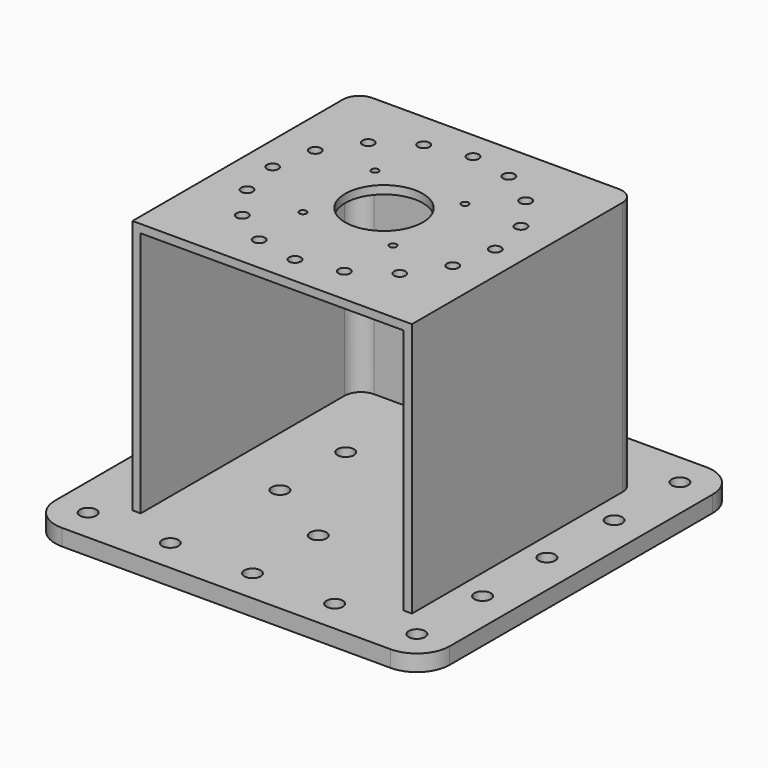
from build123d import *

# Parameters (mm, degrees)
F0_R     = 6.35
F1_DEPTH = 12.7
F2_DEPTH = 203.2
F3_R     = 95
F3_R_2   = 4.5
F3_R_3   = 2.75
F3_R_4   = 30
F4_DEPTH = 6.35


with BuildPart() as f1:
    # F0 (on Top) → F1 (new body)
    with BuildSketch(Plane.XY):
        with BuildLine():
            Line((-127, -152.4), (127, -152.4))
            ThreePointArc((127, -152.4), (144.9605122421, -144.9605122421), (152.4, -127))
            Line((152.4, -127), (152.4, 127))
            ThreePointArc((152.4, 127), (144.9605122421, 144.9605122421), (127, 152.4))
            Line((127, 152.4), (-127, 152.4))
            ThreePointArc((-127, 152.4), (-144.9605122421, 144.9605122421), (-152.4, 127))
            Line((-152.4, 127), (-152.4, -127))
            ThreePointArc((-152.4, -127), (-144.9605122421, -144.9605122421), (-127, -152.4))
        make_face()
        with Locations((-127, -127)):
            Circle(F0_R, mode=Mode.SUBTRACT)
        with Locations((-63.5, -127)):
            Circle(F0_R, mode=Mode.SUBTRACT)
        with Locations((-127, -63.5)):
            Circle(F0_R, mode=Mode.SUBTRACT)
        with Locations((0, -127)):
            Circle(F0_R, mode=Mode.SUBTRACT)
        with Locations((63.5, -127)):
            Circle(F0_R, mode=Mode.SUBTRACT)
        with Locations((127, -127)):
            Circle(F0_R, mode=Mode.SUBTRACT)
        with Locations((127, -63.5)):
            Circle(F0_R, mode=Mode.SUBTRACT)
        with Locations((-127, 0)):
            Circle(F0_R, mode=Mode.SUBTRACT)
        with Locations((-127, 63.5)):
            Circle(F0_R, mode=Mode.SUBTRACT)
        with Locations((-127, 127)):
            Circle(F0_R, mode=Mode.SUBTRACT)
        with Locations((-63.5, 127)):
            Circle(F0_R, mode=Mode.SUBTRACT)
        with BuildLine():
            Line((107.95, 95.25), (107.95, -107.95))
            Line((107.95, -107.95), (101.6, -107.95))
            Line((101.6, -107.95), (-101.6, -107.95))
            Line((-101.6, -107.95), (-107.95, -107.95))
            Line((-107.95, -107.95), (-107.95, 95.25))
            ThreePointArc((-107.95, 95.25), (-104.2302561211, 104.2302561211), (-95.25, 107.95))
            Line((-95.25, 107.95), (95.25, 107.95))
            ThreePointArc((95.25, 107.95), (104.2302561211, 104.2302561211), (107.95, 95.25))
        make_face(mode=Mode.SUBTRACT)
        with Locations((125.8721500635, 0)):
            Circle(F0_R, mode=Mode.SUBTRACT)
        with Locations((127, 63.5)):
            Circle(F0_R, mode=Mode.SUBTRACT)
        with Locations((0, 127)):
            Circle(F0_R, mode=Mode.SUBTRACT)
        with Locations((63.5, 127)):
            Circle(F0_R, mode=Mode.SUBTRACT)
        with Locations((127, 127)):
            Circle(F0_R, mode=Mode.SUBTRACT)
        with BuildLine():
            Line((-101.6, -107.95), (101.6, -107.95))
            Line((101.6, -107.95), (101.6, 88.9))
            ThreePointArc((101.6, 88.9), (97.8802561211, 97.8802561211), (88.9, 101.6))
            Line((88.9, 101.6), (-88.9, 101.6))
            ThreePointArc((-88.9, 101.6), (-97.8802561211, 97.8802561211), (-101.6, 88.9))
            Line((-101.6, 88.9), (-101.6, -107.95))
        make_face()
        with Locations((-54.9926131403, -31.75)):
            Circle(F0_R, mode=Mode.SUBTRACT)
        with Locations((0, -63.5)):
            Circle(F0_R, mode=Mode.SUBTRACT)
        with Locations((54.9926131403, -31.75)):
            Circle(F0_R, mode=Mode.SUBTRACT)
        with Locations((-54.9926131403, 31.75)):
            Circle(F0_R, mode=Mode.SUBTRACT)
        with Locations((54.9926131403, 31.75)):
            Circle(F0_R, mode=Mode.SUBTRACT)
        with Locations((0, 63.5)):
            Circle(F0_R, mode=Mode.SUBTRACT)
    extrude(amount=F1_DEPTH)

    # F0 (on Top) → F2 (join)
    with BuildSketch(Plane.XY):
        with BuildLine():
            Line((101.6, -107.95), (107.95, -107.95))
            Line((107.95, -107.95), (107.95, 95.25))
            ThreePointArc((107.95, 95.25), (104.2302561211, 104.2302561211), (95.25, 107.95))
            Line((95.25, 107.95), (-95.25, 107.95))
            ThreePointArc((-95.25, 107.95), (-104.2302561211, 104.2302561211), (-107.95, 95.25))
            Line((-107.95, 95.25), (-107.95, -107.95))
            Line((-107.95, -107.95), (-101.6, -107.95))
            Line((-101.6, -107.95), (-101.6, 88.9))
            ThreePointArc((-101.6, 88.9), (-97.8802561211, 97.8802561211), (-88.9, 101.6))
            Line((-88.9, 101.6), (88.9, 101.6))
            ThreePointArc((88.9, 101.6), (97.8802561211, 97.8802561211), (101.6, 88.9))
            Line((101.6, 88.9), (101.6, -107.95))
        make_face()
    extrude(amount=F2_DEPTH)

    # F3 (on face) → F4 (join)
    with BuildSketch(Plane.XY.offset(203.2)):
        with BuildLine():
            Line((101.6, -107.95), (107.95, -107.95))
            Line((107.95, -107.95), (107.95, 95.25))
            ThreePointArc((107.95, 95.25), (104.2302561211, 104.2302561211), (95.25, 107.95))
            Line((95.25, 107.95), (-95.25, 107.95))
            ThreePointArc((-95.25, 107.95), (-104.2302561211, 104.2302561211), (-107.95, 95.25))
            Line((-107.95, 95.25), (-107.95, -107.95))
            Line((-107.95, -107.95), (-101.6, -107.95))
            Line((-101.6, -107.95), (-101.6, 88.9))
            ThreePointArc((-101.6, 88.9), (-97.8802561211, 97.8802561211), (-88.9, 101.6))
            Line((-88.9, 101.6), (88.9, 101.6))
            ThreePointArc((88.9, 101.6), (97.8802561211, 97.8802561211), (101.6, 88.9))
            Line((101.6, 88.9), (101.6, -107.95))
        make_face()
        with BuildLine():
            Line((-101.6, -107.95), (101.6, -107.95))
            Line((101.6, -107.95), (101.6, 88.9))
            ThreePointArc((101.6, 88.9), (97.8802561211, 97.8802561211), (88.9, 101.6))
            Line((88.9, 101.6), (-88.9, 101.6))
            ThreePointArc((-88.9, 101.6), (-97.8802561211, 97.8802561211), (-101.6, 88.9))
            Line((-101.6, 88.9), (-101.6, -107.95))
        make_face()
        Circle(F3_R, mode=Mode.SUBTRACT)
        Circle(F3_R)
        with Locations((-60.811183182, -60.811183182)):
            Circle(F3_R_2, mode=Mode.SUBTRACT)
        with Locations((0, -86)):
            Circle(F3_R_2, mode=Mode.SUBTRACT)
        with Locations((-32.9107751834, -79.453639796)):
            Circle(F3_R_2, mode=Mode.SUBTRACT)
        with Locations((-79.453639796, -32.9107751834)):
            Circle(F3_R_2, mode=Mode.SUBTRACT)
        with Locations((-34.8, -34.8)):
            Circle(F3_R_3, mode=Mode.SUBTRACT)
        with Locations((32.9107751834, -79.453639796)):
            Circle(F3_R_2, mode=Mode.SUBTRACT)
        with Locations((60.811183182, -60.811183182)):
            Circle(F3_R_2, mode=Mode.SUBTRACT)
        with Locations((34.8, -34.8)):
            Circle(F3_R_3, mode=Mode.SUBTRACT)
        with Locations((79.453639796, -32.9107751834)):
            Circle(F3_R_2, mode=Mode.SUBTRACT)
        with Locations((-86, 0)):
            Circle(F3_R_2, mode=Mode.SUBTRACT)
        with Locations((-79.453639796, 32.9107751834)):
            Circle(F3_R_2, mode=Mode.SUBTRACT)
        Circle(F3_R_4, mode=Mode.SUBTRACT)
        with Locations((-34.8, 34.8)):
            Circle(F3_R_3, mode=Mode.SUBTRACT)
        with Locations((-60.811183182, 60.811183182)):
            Circle(F3_R_2, mode=Mode.SUBTRACT)
        with Locations((-32.9107751834, 79.453639796)):
            Circle(F3_R_2, mode=Mode.SUBTRACT)
        with Locations((0, 86)):
            Circle(F3_R_2, mode=Mode.SUBTRACT)
        with Locations((34.8, 34.8)):
            Circle(F3_R_3, mode=Mode.SUBTRACT)
        with Locations((86, 0)):
            Circle(F3_R_2, mode=Mode.SUBTRACT)
        with Locations((79.453639796, 32.9107751834)):
            Circle(F3_R_2, mode=Mode.SUBTRACT)
        with Locations((32.9107751834, 79.453639796)):
            Circle(F3_R_2, mode=Mode.SUBTRACT)
        with Locations((60.811183182, 60.811183182)):
            Circle(F3_R_2, mode=Mode.SUBTRACT)
    extrude(amount=F4_DEPTH)


solid = f1.part
